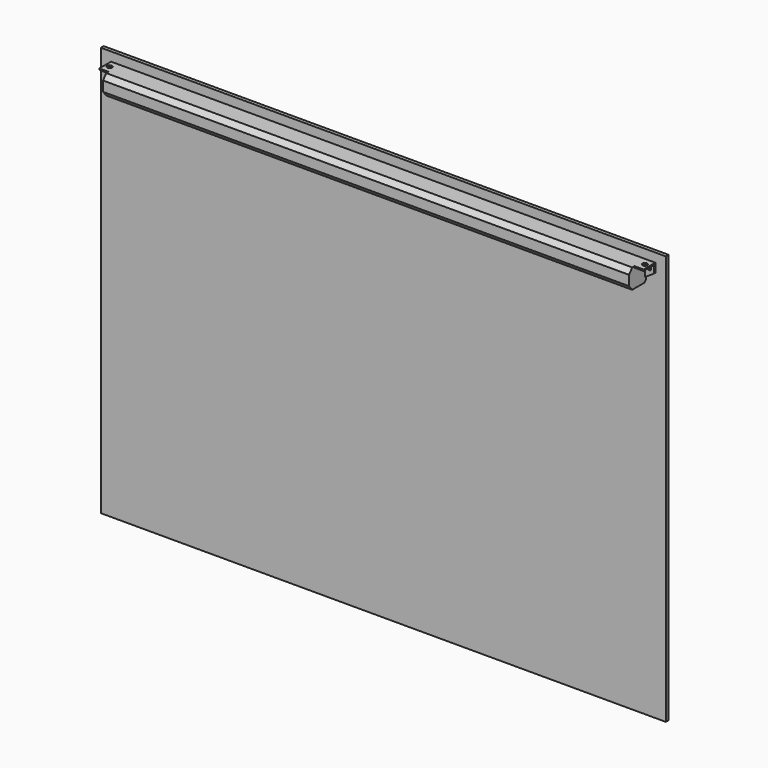
from build123d import *

# Parameters (mm, degrees)
F1_DEPTH  = 190.5
F2_W      = 378.46
F2_H      = 8.671001002
F3_DEPTH  = 7.62
F6_DEPTH  = 1.016
F8_W      = 6.6032768488
F8_H      = 10.6432642788
F8_R      = 1.781548847
F9_DEPTH  = 1.016
F11_W     = 409.2337787151
F11_H     = 296.8385680579
F12_DEPTH = 2.54


with BuildPart() as f1:
    # F0 (on Right) → F1 (new body, symmetric)
    with BuildSketch(Plane.YZ):
        Polygon((0, -12.7), (0, 0), (-12.7, 0), (-15.4874324799, -3.6016106606), (-15.4874324799, -10.8280887524), (-12.7, -14.2828794196), (-1.488998998, -14.2828794196), align=None)
    extrude(amount=F1_DEPTH, both=True)

    # F2 (on face) → F3 (cut)
    with BuildSketch(Plane(origin=(0, 0, -14.2828794196), x_dir=(1, 0, 0), z_dir=(0, 0, -1))):
        with Locations((0, 7.094499499)):
            Rectangle(F2_W, F2_H)
    extrude(amount=-F3_DEPTH, mode=Mode.SUBTRACT)

    # F5 (on face) → F6 (join)
    with BuildSketch(Plane(origin=(0, 0, 0), x_dir=(-1, 0, 0), z_dir=(0, 1, 0))):
        Polygon((-189.7398233414, -11.4231714979), (-189.7398233414, 0), (-197.1032768488, 0), (-197.1032768488, -6.4969165251), align=None)
        with BuildLine():
            ThreePointArc((-193.2487062213, -3.3378815267), (-193.7581516271, -5.5607062907), (-194.2880846195, -3.3426766298))
            add(Edge.make_bspline(
                [(-193.2487062213, -3.3378815267), (-193.194434042, -2.0449407695), (-193.7743590345, -2.0476162149), (-194.3542840271, -2.0502916603), (-194.2880846195, -3.3426766298)],
                knots=[1.4667403996, 1.4667403996, 1.4667403996, 3.1415926536, 3.1415926536, 4.8164449075, 4.8164449075, 4.8164449075], degree=2, weights=[1, 0.6693772297, 1, 0.6693772297, 1]))
        make_face(mode=Mode.SUBTRACT)
        Polygon((189.7398233414, 0), (189.7398233414, -11.4231714979), (197.1032768488, -6.4969165251), (197.1032768488, 0), align=None)
        with BuildLine():
            add(Edge.make_bspline(
                [(194.2880846195, -3.3426766298), (194.3542840271, -2.0502916603), (193.7743590345, -2.0476162149), (193.194434042, -2.0449407695), (193.2487062213, -3.3378815267)],
                knots=[1.4667403996, 1.4667403996, 1.4667403996, 3.1415926536, 3.1415926536, 4.8164449075, 4.8164449075, 4.8164449075], degree=2, weights=[1, 0.6693772297, 1, 0.6693772297, 1]))
            ThreePointArc((194.2880846195, -3.3426766298), (193.7581516271, -5.5607062907), (193.2487062213, -3.3378815267))
        make_face(mode=Mode.SUBTRACT)
    extrude(amount=-F6_DEPTH)

    # F8 (on face) → F9 (join)
    with BuildSketch(Plane.XY):
        with Locations((193.8016384244, -5.3216321394)):
            Rectangle(F8_W, F8_H)
        with Locations((193.8343942165, -5.3216321394)):
            Circle(F8_R, mode=Mode.SUBTRACT)
        with Locations((-193.8016384244, -5.3216321394)):
            Rectangle(F8_W, F8_H)
        with Locations((-193.8343942165, -5.3216321394)):
            Circle(F8_R, mode=Mode.SUBTRACT)
    extrude(amount=-F9_DEPTH)


with BuildPart() as f12:
    # F11 (on offset) → F12 (new body)
    with BuildSketch(Plane.XZ.offset(-0.00254)):
        with Locations((0.1355409622, -141.9327028561)):
            Rectangle(F11_W, F11_H)
    extrude(amount=-F12_DEPTH)


solid = Compound([f1.part, f12.part])
